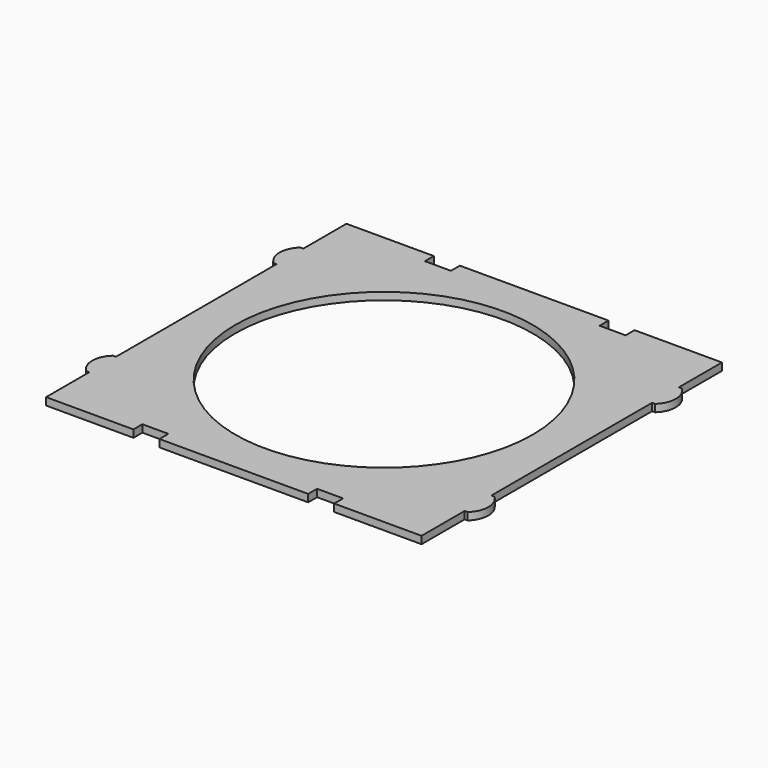
from build123d import *

# Parameters (mm, degrees)
F0_R     = 40
F1_DEPTH = 2


with BuildPart() as f1:
    # F0 (on Top) → F1 (new body)
    with BuildSketch(Plane.XY):
        with BuildLine():
            Line((50.5, 35.999204), (50.5, 50.5))
            Line((50.5, 50.5), (27, 50.5))
            Line((27, 50.5), (27, 47.5))
            Line((27, 47.5), (20, 47.5))
            Line((20, 47.5), (20, 50.5))
            Line((20, 50.5), (-20, 50.5))
            Line((-20, 50.5), (-20, 47.5))
            Line((-20, 47.5), (-27, 47.5))
            Line((-27, 47.5), (-27, 50.5))
            Line((-27, 50.5), (-50.5, 50.5))
            Line((-50.5, 50.5), (-50.5, 35.999204))
            Line((-50.5, 35.999204), (-50.5, 26.999204))
            Line((-50.5, 26.999204), (-50.5, -26.999204))
            Line((-50.5, -26.999204), (-51.3, -26.999204))
            ThreePointArc((-51.3, -26.999204), (-53.3, -31.499204), (-51.3, -35.999204))
            Line((-51.3, -35.999204), (-50.5, -35.999204))
            Line((-50.5, -35.999204), (-50.5, -50.5))
            Line((-50.5, -50.5), (-27, -50.5))
            Line((-27, -50.5), (-27, -47.5))
            Line((-27, -47.5), (-20, -47.5))
            Line((-20, -47.5), (-20, -50.5))
            Line((-20, -50.5), (20, -50.5))
            Line((20, -50.5), (20, -47.5))
            Line((20, -47.5), (27, -47.5))
            Line((27, -47.5), (27, -50.5))
            Line((27, -50.5), (50.5, -50.5))
            Line((50.5, -50.5), (50.5, -35.999204))
            Line((50.5, -35.999204), (51.3, -35.999204))
            ThreePointArc((51.3, -35.999204), (53.3, -31.499204), (51.3, -26.999204))
            Line((51.3, -26.999204), (50.5, -26.999204))
            Line((50.5, -26.999204), (50.5, 26.999204))
            Line((50.5, 26.999204), (51.3, 26.999204))
            ThreePointArc((51.3, 26.999204), (53.3, 31.499204), (51.3, 35.999204))
            Line((51.3, 35.999204), (50.5, 35.999204))
        make_face()
        Circle(F0_R, mode=Mode.SUBTRACT)
        with BuildLine():
            Line((-50.5, 26.999204), (-50.5, 35.999204))
            Line((-50.5, 35.999204), (-50.8, 35.999204))
            Line((-50.8, 35.999204), (-51.3, 35.999204))
            ThreePointArc((-51.3, 35.999204), (-53.3, 31.499204), (-51.3, 26.999204))
            Line((-51.3, 26.999204), (-50.5, 26.999204))
        make_face()
    extrude(amount=F1_DEPTH)


solid = f1.part
